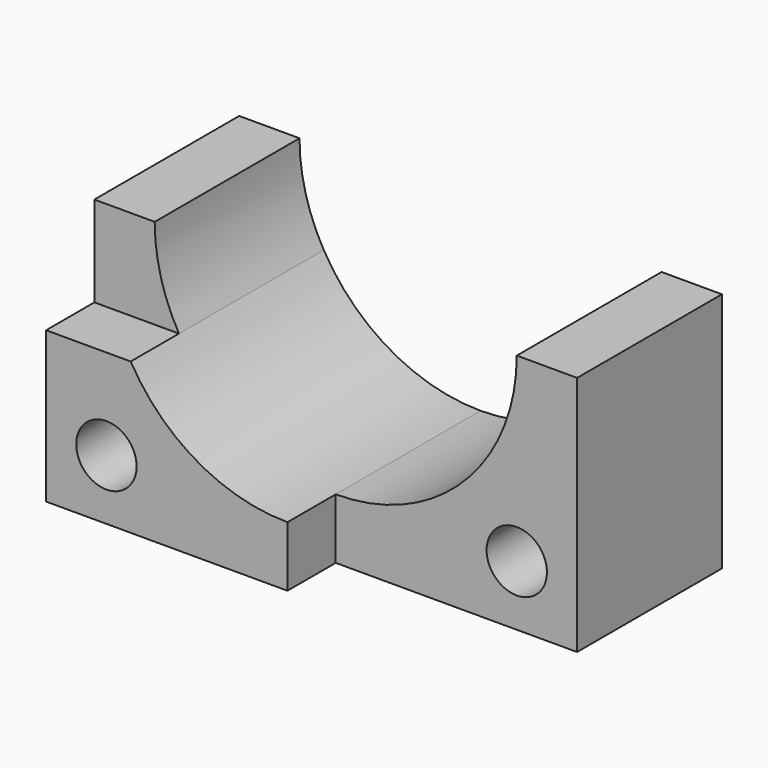
from build123d import *

# Parameters (mm, degrees)
F0_R     = 5
F1_DEPTH = 30
F2_DEPTH = 40


with BuildPart() as f1:
    # F0 (on Front) → F1 (new body)
    with BuildSketch(Plane.XZ):
        with BuildLine():
            Line((-40, 25), (-25.980762, 25))
            ThreePointArc((-25.980762, 25), (-28.977775, 32.235429), (-30, 40))
            Line((-30, 40), (-40, 40))
            Line((-40, 40), (-40, 25))
        make_face()
        with BuildLine():
            ThreePointArc((30, 40), (21.213203, 18.786797), (0, 10))
            Line((0, 10), (0, 0))
            Line((0, 0), (40, 0))
            Line((40, 0), (40, 40))
            Line((40, 40), (30, 40))
        make_face()
        with Locations((30, 10)):
            Circle(F0_R, mode=Mode.SUBTRACT)
    extrude(amount=F1_DEPTH)

    # F0 (on Front) → F2 (join)
    with BuildSketch(Plane.XZ):
        with BuildLine():
            Line((0, 0), (0, 10))
            ThreePointArc((0, 10), (-15, 14.019238), (-25.980762, 25))
            Line((-25.980762, 25), (-40, 25))
            Line((-40, 25), (-40, 0))
            Line((-40, 0), (0, 0))
        make_face()
        with Locations((-30, 10)):
            Circle(F0_R, mode=Mode.SUBTRACT)
    extrude(amount=F2_DEPTH)


solid = f1.part
